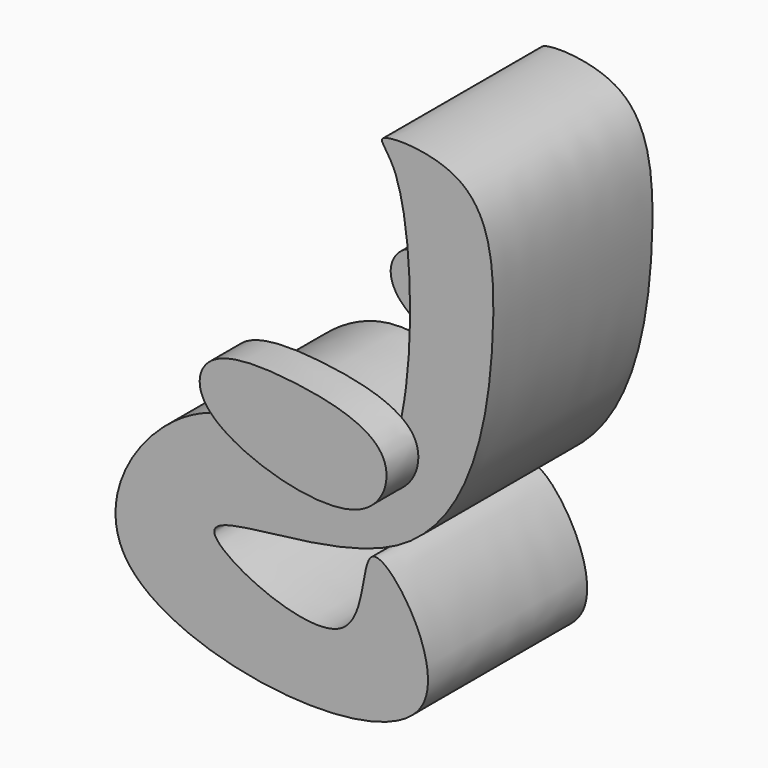
from build123d import *

# Parameters (mm, degrees)
F1_DEPTH = 50
F3_DEPTH = 10


with BuildPart() as f1:
    # F0 (on Front) → F1 (new body)
    with BuildSketch(Plane.XZ):
        with BuildLine():
            add(Edge.make_bspline(
                [(38.9665178955, 50.0286892056), (44.5239066981, 35.530683237), (44.4048827403, -43.4144202609), (-5.9177216667, -0.2133991452), (-59.6264401447, -70.6995926476), (71.8717775343, -84.7180929745), (27.4004805667, -19.8263050686), (34.5793666318, -68.3076984274), (-32.4506544697, -35.9157355904), (54.6997845925, -44.379425275), (65.6651111636, 22.2637277348), (61.7478314112, 57.9347173369), (30.7845212281, 58.4280976062), (37.1173176109, 54.852846326), (38.9665178955, 50.0286892056)],
                knots=[0, 0, 0, 0, 0.1139249225, 0.1978248954, 0.2910336144, 0.4091274057, 0.4854287503, 0.5465708974, 0.625843295, 0.7192077778, 0.8256545774, 0.9028907274, 0.9620919092, 1, 1, 1, 1], degree=3))
        make_face()
    extrude(amount=F1_DEPTH)

    # F2 (on Front) → F3 (join)
    with BuildSketch(Plane.XZ):
        with BuildLine():
            add(Edge.make_bspline(
                [(43.7788069248, -6.8786866032), (40.8910787185, -1.1154466116), (21.2083744745, 3.5661713245), (-1.9453000559, 3.4966068936), (-4.492076441, -14.7561136013), (40.2943836925, -28.4847889178), (46.0368927919, -11.3853055935), (43.7788069248, -6.8786866032)],
                knots=[0, 0, 0, 0, 0.2157974648, 0.4173089203, 0.5594935964, 0.83125517, 1, 1, 1, 1], degree=3))
        make_face()
    extrude(amount=-F3_DEPTH)

    # F5: F1 across plane


with BuildPart() as f1_1:
    add(f1.part)
    add(f1.part.mirror(Plane.XZ.offset(25)))


solid = f1_1.part
